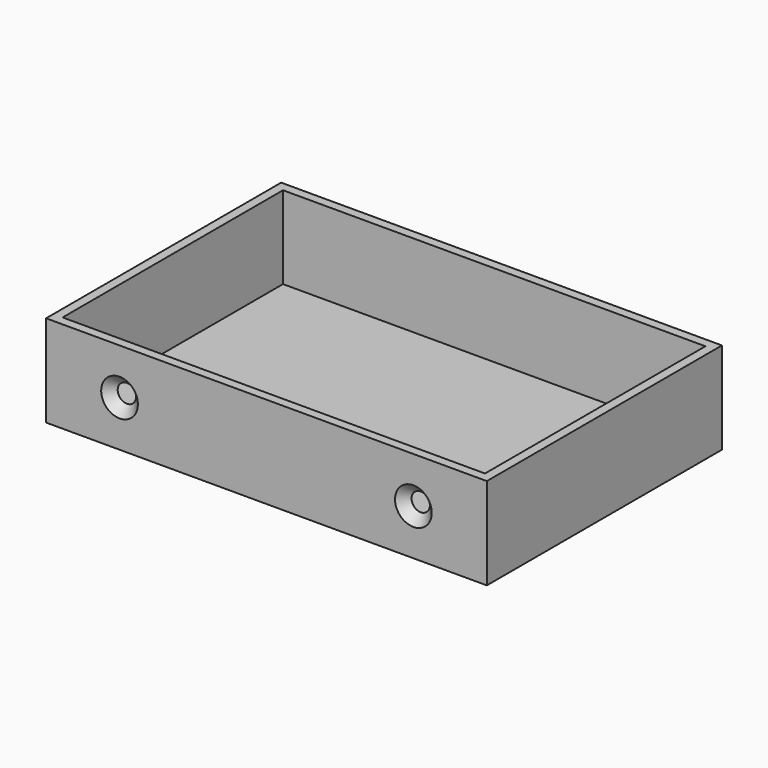
from build123d import *

# Parameters (mm, degrees)
F0_W           = 120
F0_H           = 80
F1_DEPTH       = 25
F2_T           = -2.5
F4_D           = 5
F4_DEPTH       = 12
F4_CSINK_D     = 10
F4_CSINK_ANGLE = 90
F5_D           = 5
F5_DEPTH       = 12
F5_CSINK_D     = 10
F5_CSINK_ANGLE = 90


with BuildPart() as f1:
    # F0 (on Top) → F1 (new body)
    with BuildSketch(Plane.XY):
        with Locations((5.008996, -1.665502)):
            Rectangle(F0_W, F0_H)
    extrude(amount=F1_DEPTH)

    # F2
    f2_openings = [f1.faces().sort_by_distance(p)[0] for p in [
        (5.008996, -1.665502, 25),
    ]]
    offset(amount=F2_T, openings=f2_openings)

    # F4
    with Locations(Plane.XZ.offset(41.665502)):
        with Locations((-34.991004, 12.5)):
            CounterSinkHole(F4_D / 2, F4_CSINK_D / 2, depth=F4_DEPTH, counter_sink_angle=F4_CSINK_ANGLE)

    # F5
    with Locations(Plane.XZ.offset(41.665502)):
        with Locations((45.008996, 12.5)):
            CounterSinkHole(F5_D / 2, F5_CSINK_D / 2, depth=F5_DEPTH, counter_sink_angle=F5_CSINK_ANGLE)


solid = f1.part
